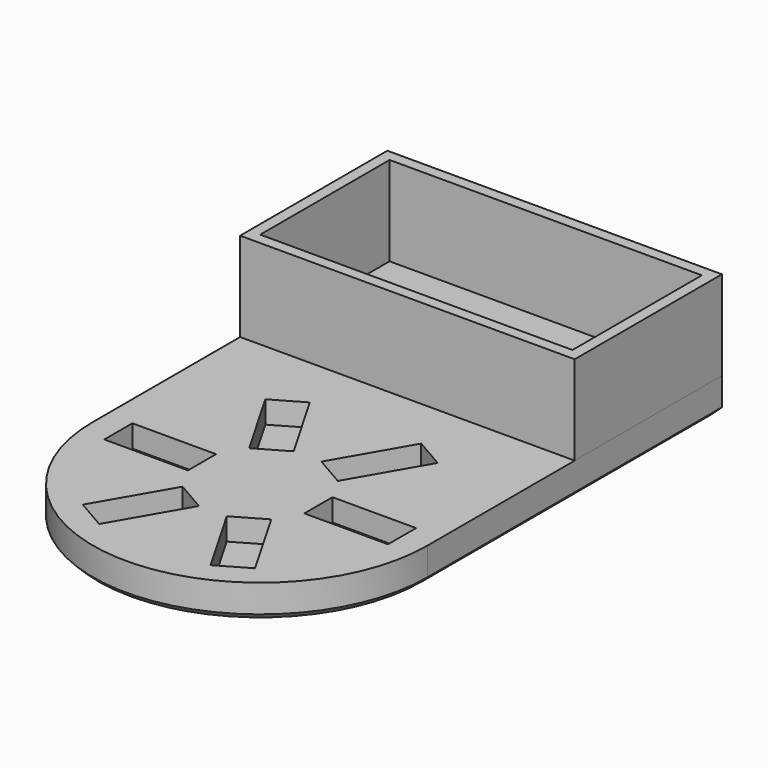
from build123d import *

# Parameters (mm, degrees)
F0_R     = 12.7
F0_W     = 95.25
F0_H     = 52.3875
F0_W_2   = 88.9
F0_H_2   = 46.0375
F1_DEPTH = 9.525
F2_W     = 95.25
F2_H     = 52.3875
F2_W_2   = 88.9
F2_H_2   = 46.0375
F3_DEPTH = 25.4
F4_W     = 23.8125
F4_H     = 10
F5_DEPTH = 6.35
F6_DEPTH = 9.525
F7_SIZE  = 1.5875


with BuildPart() as f1:
    # F0 (on Top) → F1 (new body)
    with BuildSketch(Plane.XY):
        with BuildLine():
            ThreePointArc((-47.625, 0), (0, -47.625), (47.625, 0))
            ThreePointArc((47.625, 0), (0, 47.625), (-47.625, 0))
        make_face()
        Circle(F0_R, mode=Mode.SUBTRACT)
        with Locations((0, 78.58125)):
            Rectangle(F0_W, F0_H)
        with Locations((0, 78.58125)):
            Rectangle(F0_W_2, F0_H_2, mode=Mode.SUBTRACT)
        with Locations((0, 78.58125)):
            Rectangle(F0_W_2, F0_H_2)
        with BuildLine():
            ThreePointArc((-47.625, 0), (0, 47.625), (47.625, 0))
            Line((47.625, 0), (47.625, 52.3875))
            Line((47.625, 52.3875), (-47.625, 52.3875))
            Line((-47.625, 52.3875), (-47.625, 0))
        make_face()
    extrude(amount=F1_DEPTH)

    # F4 (on face) → F5 (cut)
    with BuildSketch(Plane.XY.offset(9.525)):
        with Locations((-28.4794976622, 0)):
            Rectangle(F4_W, F4_H)
        Polygon((-12.61675085, 11.8528534987), (-3.9564968122, 16.8528534987), (-15.8627468122, 37.4750834263), (-24.52300085, 32.4750834263), align=None)
        Polygon((3.9564968122, 16.8528534987), (12.61675085, 11.8528534987), (24.52300085, 32.4750834263), (15.8627468122, 37.4750834263), align=None)
        with Locations((28.4794976622, 0)):
            Rectangle(F4_W, F4_H)
        Polygon((12.61675085, -11.8528534987), (3.9564968122, -16.8528534987), (15.8627468122, -37.4750834263), (24.52300085, -32.4750834263), align=None)
        Polygon((-3.9564968122, -16.8528534987), (-12.61675085, -11.8528534987), (-24.52300085, -32.4750834263), (-15.8627468122, -37.4750834263), align=None)
    extrude(amount=-F5_DEPTH, mode=Mode.SUBTRACT)

    # F0 (on Top) → F6 (join, through all)
    with BuildSketch(Plane.XY):
        Circle(F0_R)
    extrude(amount=F6_DEPTH)

    # F7
    f7_edges = [f1.edges().sort_by_distance(p)[0] for p in [
        (0, -47.625, 0),
        (0, 104.775, 0),
    ]]
    chamfer(f7_edges, length=F7_SIZE)


with BuildPart() as f3:
    # F2 (on face) → F3 (new body)
    with BuildSketch(Plane.XY.offset(9.525)):
        with Locations((0, 78.58125)):
            Rectangle(F2_W, F2_H)
        with Locations((0, 78.58125)):
            Rectangle(F2_W_2, F2_H_2, mode=Mode.SUBTRACT)
    extrude(amount=F3_DEPTH)


solid = Compound([f1.part, f3.part])
